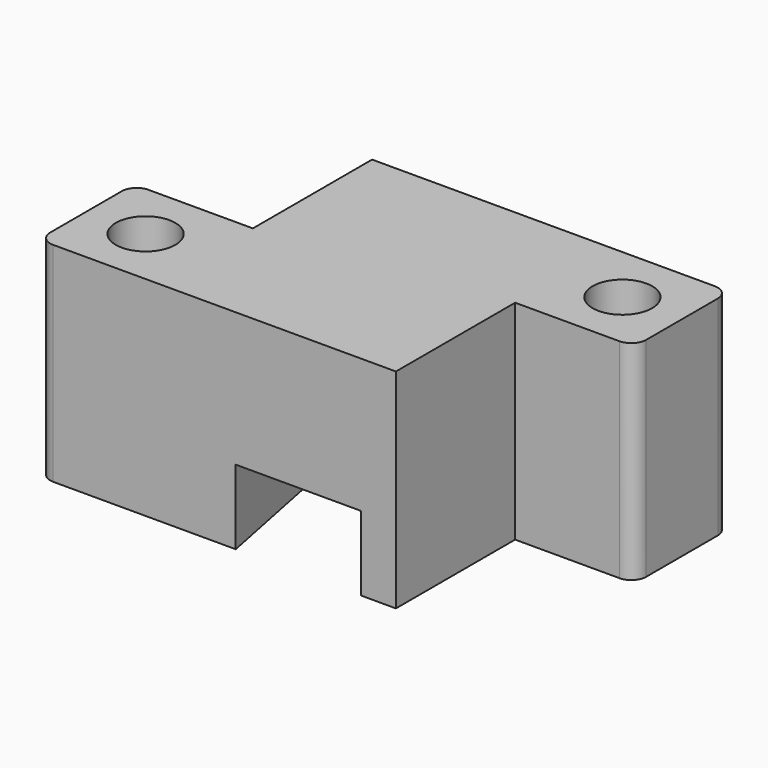
from build123d import *

# Parameters (mm, degrees)
SKETCH_R     = 2
PAD_DEPTH    = 14
POCKET_DEPTH = 5


with BuildPart() as part:
    # Sketch → Pad (new body)
    with BuildSketch(Plane.XY):
        with BuildLine():
            Line((-16, 18), (7, 18))
            ThreePointArc((8, 17), (7.707107, 17.707107), (7, 18))
            Line((8, 17), (8, 11))
            ThreePointArc((7, 10), (7.707107, 10.292893), (8, 11))
            Line((7, 10), (0, 10))
            Line((0, 10), (0, 0))
            Line((0, 0), (-23, 0))
            ThreePointArc((-24, 1), (-23.707107, 0.292893), (-23, 0))
            Line((-24, 1), (-24, 7))
            ThreePointArc((-23, 8), (-23.707107, 7.707107), (-24, 7))
            Line((-23, 8), (-16, 8))
            Line((-16, 8), (-16, 18))
        make_face()
        with Locations((4, 14)):
            Circle(SKETCH_R, mode=Mode.SUBTRACT)
        with Locations((-20, 4)):
            Circle(SKETCH_R, mode=Mode.SUBTRACT)
    extrude(amount=PAD_DEPTH)

    # Sketch001 → Pocket (cut)
    with BuildSketch(Plane.XY):
        Polygon((-2.35, 18), (-2.35, 0), (-10.75, 0), (-14.35, 18), align=None)
    extrude(amount=POCKET_DEPTH, mode=Mode.SUBTRACT)


solid = part.part
